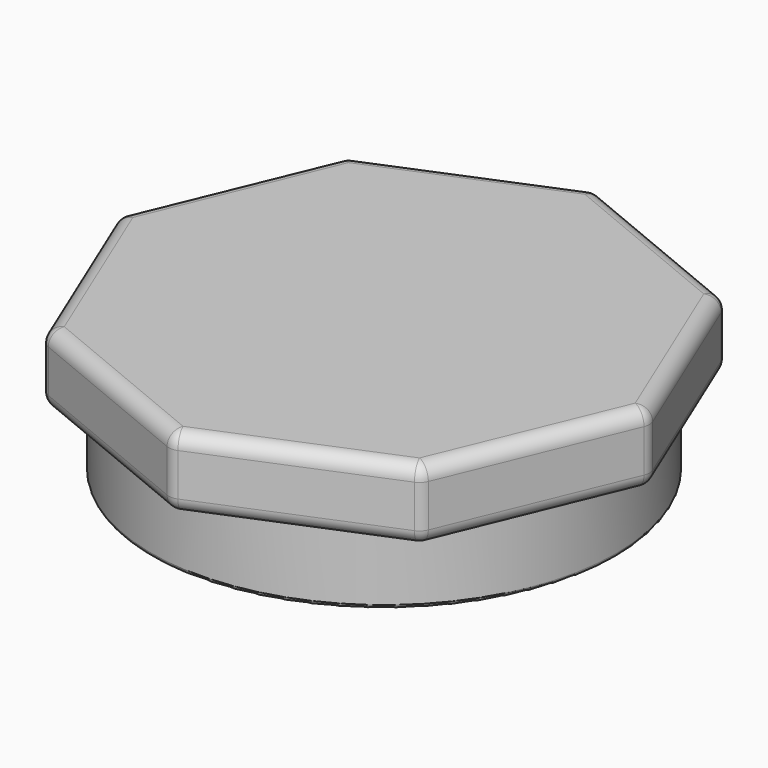
from build123d import *

# Parameters (mm, degrees)
PAD_DEPTH             = 10
SKETCH001_R           = 32.645482
PAD001_DEPTH          = 10
SKETCH002_R           = 30.645482
POCKET_DEPTH          = 16
PAD002_DEPTH          = 16
POLARPATTERN_COUNT    = 11
PAD003_DEPTH          = 16
POLARPATTERN001_COUNT = 8
PAD004_DEPTH          = 16
POLARPATTERN002_COUNT = 5
FILLET_R              = 2
FILLET001_R           = 0.5


with BuildPart() as part:
    # Sketch → Pad (new body)
    with BuildSketch(Plane.XY):
        Polygon((0, 37.5), (-26.516504, 26.516504), (-37.5, 0), (-26.516504, -26.516504), (0, -37.5), (26.516504, -26.516504), (37.5, 0), (26.516504, 26.516504), align=None)
    extrude(amount=PAD_DEPTH)

    # Sketch001 (on Face9 of Pad) → Pad001 (join)
    with BuildSketch(Plane(origin=(0, 0, 0), x_dir=(1, 0, 0), z_dir=(0, 0, -1))):
        Circle(SKETCH001_R)
    extrude(amount=PAD001_DEPTH)

    # Sketch002 (on Face12 of Pad001) → Pocket (cut)
    with BuildSketch(Plane(origin=(0, 0, -10), x_dir=(1, 0, 0), z_dir=(0, 0, -1))):
        Circle(SKETCH002_R)
    extrude(amount=-POCKET_DEPTH, mode=Mode.SUBTRACT)

    # Sketch003 (on Face14 of Pocket) → Pad002 (join)
    with BuildSketch(Plane(origin=(0, 0, 6), x_dir=(1, 0, 0), z_dir=(0, 0, -1))):
        with BuildLine():
            ThreePointArc((2.280231, 26.172091), (0, 26.271235), (-2.280231, 26.172091))
            ThreePointArc((-2.280231, 26.172091), (-1.878796, 28.440008), (-2.75, 30.572048))
            ThreePointArc((2.75, 30.572048), (0, 30.695482), (-2.75, 30.572048))
            ThreePointArc((2.75, 30.572048), (1.878796, 28.440008), (2.280231, 26.172091))
        make_face()
    pad002 = extrude(amount=PAD002_DEPTH)

    # PolarPattern: Pad002 ×11 about axis
    polarpattern_axis = Axis((0, 0, 6), (0, 0, -1))
    for i in range(1, POLARPATTERN_COUNT):
        add(pad002.rotate(polarpattern_axis, i * 360 / POLARPATTERN_COUNT))

    # Sketch004 (on Face38 of PolarPattern) → Pad003 (join)
    with BuildSketch(Plane(origin=(0, 0, 6), x_dir=(1, 0, 0), z_dir=(0, 0, -1))):
        with BuildLine():
            ThreePointArc((10.145581, 19.517548), (8.033175, 20.477685), (5.831381, 21.209962))
            ThreePointArc((4.742561, 17.283887), (5.876585, 19.083407), (5.831381, 21.209962))
            ThreePointArc((8.395195, 15.834941), (6.608708, 16.659821), (4.742561, 17.283887))
            ThreePointArc((10.145581, 19.517548), (8.599064, 17.995332), (8.395195, 15.834941))
        make_face()
    pad003 = extrude(amount=PAD003_DEPTH)

    # PolarPattern001: Pad003 ×8 about axis
    polarpattern001_axis = Axis((0, 0, 6), (0, 0, -1))
    for i in range(1, POLARPATTERN001_COUNT):
        add(pad003.rotate(polarpattern001_axis, i * 360 / POLARPATTERN001_COUNT))

    # Sketch005 (on Face38 of PolarPattern001) → Pad004 (join)
    with BuildSketch(Plane(origin=(0, 0, 6), x_dir=(1, 0, 0), z_dir=(0, 0, -1))):
        with BuildLine():
            ThreePointArc((10.788969, 8.028707), (9.911267, 9.090038), (8.92962, 10.056037))
            ThreePointArc((6.1125, 7.10731), (7.932216, 8.188868), (8.92962, 10.056037))
            ThreePointArc((7.609691, 5.474405), (6.909503, 6.335241), (6.1125, 7.10731))
            ThreePointArc((10.788969, 8.028707), (8.836266, 7.203453), (7.609691, 5.474405))
        make_face()
    pad004 = extrude(amount=PAD004_DEPTH)

    # PolarPattern002: Pad004 ×5 about axis
    polarpattern002_axis = Axis((0, 0, 6), (0, 0, -1))
    for i in range(1, POLARPATTERN002_COUNT):
        add(pad004.rotate(polarpattern002_axis, i * 360 / POLARPATTERN002_COUNT))

    # Fillet
    fillet_edges = [part.edges().sort_by_distance(p)[0] for p in [
        (-13.258252, 32.008252, 10),
        (-32.008252, 13.258252, 10),
        (-32.008252, -13.258252, 10),
        (-13.258252, -32.008252, 10),
        (13.258252, -32.008252, 10),
        (32.008252, -13.258252, 10),
        (32.008252, 13.258252, 10),
        (13.258252, 32.008252, 10),
        (37.5, 0, 5),
        (26.516504, 26.516504, 5),
        (32.008252, 13.258252, 0),
        (26.516504, -26.516504, 5),
        (32.008252, -13.258252, 0),
        (0, 37.5, 5),
        (13.258252, 32.008252, 0),
        (-26.516504, 26.516504, 5),
        (-13.258252, 32.008252, 0),
        (-37.5, 0, 5),
        (-32.008252, 13.258252, 0),
        (-26.516504, -26.516504, 5),
        (-32.008252, -13.258252, 0),
        (0, -37.5, 5),
        (-13.258252, -32.008252, 0),
        (13.258252, -32.008252, 0),
    ]]
    fillet(fillet_edges, radius=FILLET_R)

    # Fillet001
    fillet001_edges = [part.edges().sort_by_distance(p)[0] for p in [
        (-32.645482, 0, -10),
    ]]
    fillet(fillet001_edges, radius=FILLET001_R)


solid = part.part
